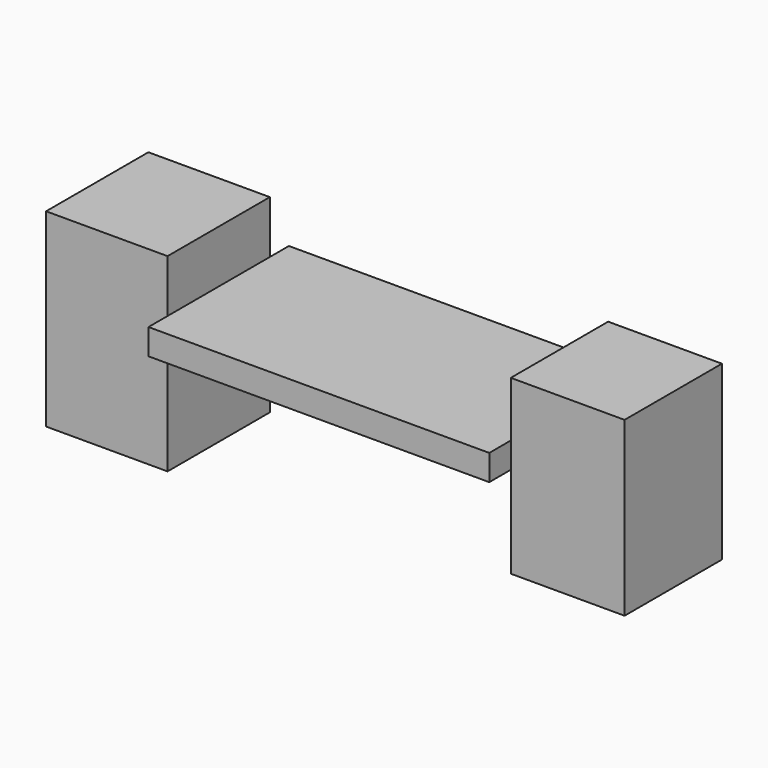
from build123d import *

# Parameters (mm, degrees)
F0_W          = 156.942024
F0_H          = 80.822982
F1_DEPTH      = 11.86577
F2_W          = 55.933565
F2_H          = 58.87492
F4_DEPTH      = 24.27763
F4_DEPTH_BACK = 62.99935
F3_W          = 52.396328
F3_H          = 56.031708
F5_DEPTH      = 25.4
F5_DEPTH_BACK = 54.0204


with BuildPart() as f1:
    # F0 (on Top) → F1 (new body)
    with BuildSketch(Plane.XY):
        Rectangle(F0_W, F0_H)
    extrude(amount=F1_DEPTH)

    # F2 (on face) → F4 (join, two sides)
    with BuildSketch(Plane.XY.offset(11.86577)) as f4_sk:
        with Locations((-106.437794, 0)):
            Rectangle(F2_W, F2_H)
    extrude(amount=F4_DEPTH)
    extrude(f4_sk.sketch, amount=-F4_DEPTH_BACK)

    # F3 (on face) → F5 (join, two sides)
    with BuildSketch(Plane.XY.offset(11.86577)) as f5_sk:
        with Locations((104.669176, 0)):
            Rectangle(F3_W, F3_H)
    extrude(amount=F5_DEPTH)
    extrude(f5_sk.sketch, amount=-F5_DEPTH_BACK)


solid = f1.part
